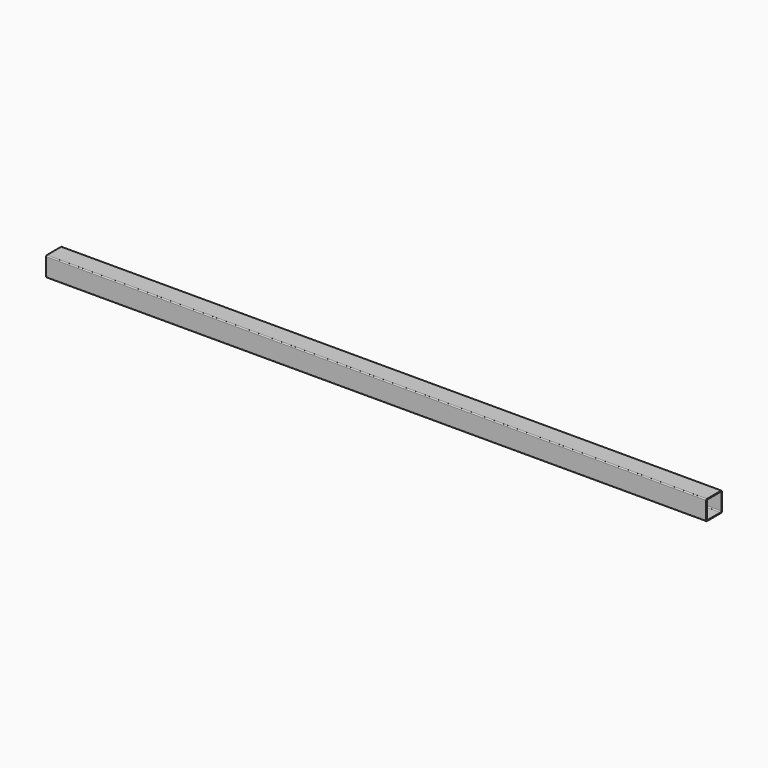
from build123d import *

# Parameters (mm, degrees)
F0_W      = 50
F0_H      = 50
F0_W_2    = 46
F0_H_2    = 46
F1_DEPTH  = 860
F2_R      = 2.5
F3_R      = 2.5
F8_DEPTH  = 820
F9_ANGLE  = 90
F10_ANGLE = 90


with BuildPart() as f1:
    # F0 (on Top) → F1 (new body)
    with BuildSketch(Plane.XY):
        with Locations((-29.1589260101, 36.7100374773)):
            Rectangle(F0_W, F0_H)
        with Locations((-29.1589260101, 36.7100374773)):
            Rectangle(F0_W_2, F0_H_2, mode=Mode.SUBTRACT)
    extrude(amount=F1_DEPTH)

    # F2
    f2_edges = [f1.edges().sort_by_distance(p)[0] for p in [
        (-4.158926, 61.710037, 430),
        (-54.158926, 61.710037, 430),
        (-4.158926, 11.710037, 430),
        (-54.158926, 11.710037, 430),
    ]]
    fillet(f2_edges, radius=F2_R)

    # F3
    f3_edges = [f1.edges().sort_by_distance(p)[0] for p in [
        (-6.158926, 59.710037, 430),
        (-52.158926, 59.710037, 430),
        (-52.158926, 13.710037, 430),
        (-6.158926, 13.710037, 430),
    ]]
    fillet(f3_edges, radius=F3_R)


with BuildPart() as f4_1:
    # F4: copy of F1
    add(f1.part)


with BuildPart() as f6_1:
    # F6: copy of F1
    add(f1.part)


with BuildPart() as f1_1:
    add(f1.part)

    # F8 (add, symmetric): a face of the model
    f8_faces = [f1_1.faces().sort_by_distance(p)[0] for p in [
        (-29.1589260101, 13.0029306961, 860),
    ]]
    extrude(f8_faces, amount=F8_DEPTH, both=True)


with BuildPart() as f1_2:
    # F9: moved
    add(f1_1.part.rotate(Axis((-29.1589260101, 13.7100374773, 0), (1, 0, 0)), F9_ANGLE))


with BuildPart() as f1_3:
    # F10: moved
    add(f1_2.part.rotate(Axis((-4.1589260101, -1666.2899625227, 23), (0, 0, -1)), F10_ANGLE))


solid = f1_3.part
